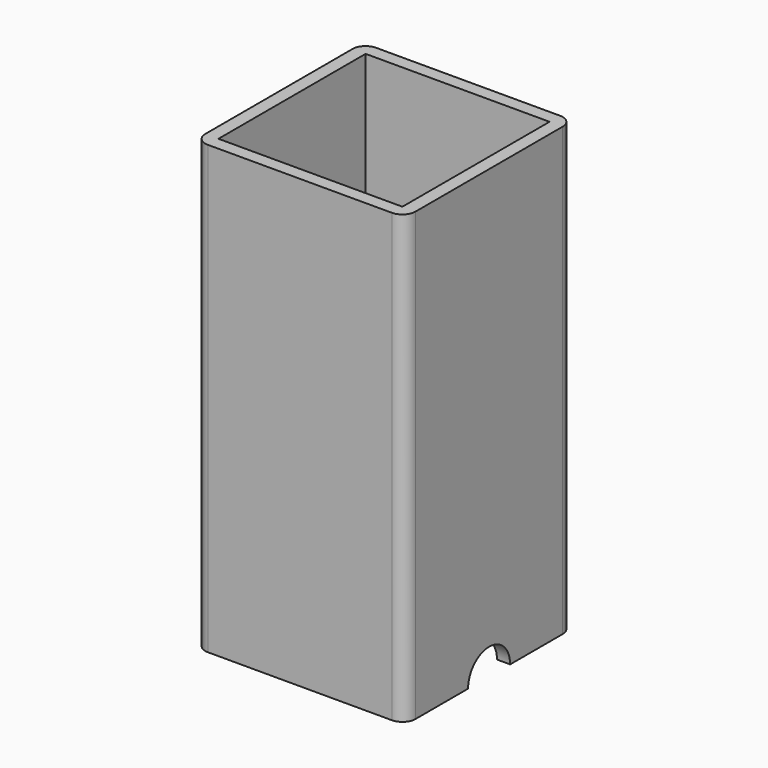
from build123d import *

# Parameters (mm, degrees)
F0_W     = 44.45
F0_H     = 44.45
F1_DEPTH = 107.95
F3_D     = 12.7


with BuildPart() as f1:
    # F0 (on Top) → F1 (new body)
    with BuildSketch(Plane.XY):
        with BuildLine():
            ThreePointArc((25.4, 22.225), (24.470064, 24.470064), (22.225, 25.4))
            Line((22.225, 25.4), (-22.225, 25.4))
            ThreePointArc((-22.225, 25.4), (-24.470064, 24.470064), (-25.4, 22.225))
            Line((-25.4, 22.225), (-25.4, -22.225))
            ThreePointArc((-25.4, -22.225), (-24.470064, -24.470064), (-22.225, -25.4))
            Line((-22.225, -25.4), (22.225, -25.4))
            ThreePointArc((22.225, -25.4), (24.470064, -24.470064), (25.4, -22.225))
            Line((25.4, -22.225), (25.4, 22.225))
        make_face()
        Rectangle(F0_W, F0_H, mode=Mode.SUBTRACT)
    extrude(amount=F1_DEPTH)

    # F3 (through all)
    with Locations(Plane.YZ.offset(25.4)):
        with Locations((0, 0)):
            Hole(F3_D / 2)


solid = f1.part
